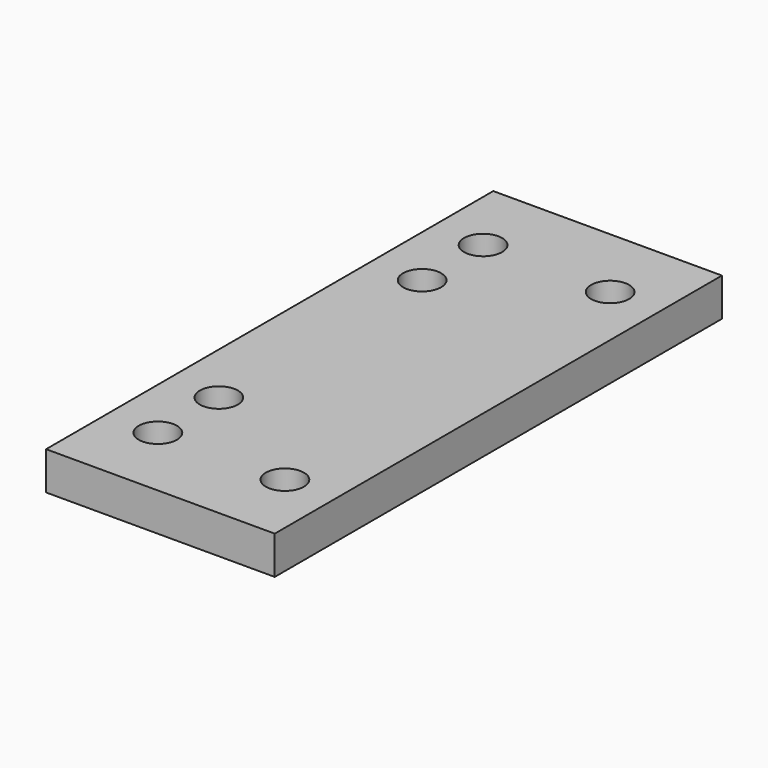
from build123d import *

# Parameters (mm, degrees)
F0_W     = 18
F0_H     = 44
F1_DEPTH = 3
F2_D     = 3


with BuildPart() as f1:
    # F0 (on Top) → F1 (new body)
    with BuildSketch(Plane.XY):
        Rectangle(F0_W, F0_H)
        Polygon((5, 16), (5, -16), (-5, -16), (-5, -10), (-5, 10), (-5, 16), align=None, mode=Mode.SUBTRACT)
        Polygon((-5, -16), (5, -16), (5, 16), (-5, 16), (-5, 10), (-5, -10), align=None)
    extrude(amount=F1_DEPTH)

    # F2 (through all)
    with Locations(Plane(origin=(0, 0, 0), x_dir=(1, 0, 0), z_dir=(0, 0, -1))):
        with Locations((-5, -16), (-5, 16), (-5, 10), (-5, -10), (5, -16), (5, 16)):
            Hole(F2_D / 2)


solid = f1.part
